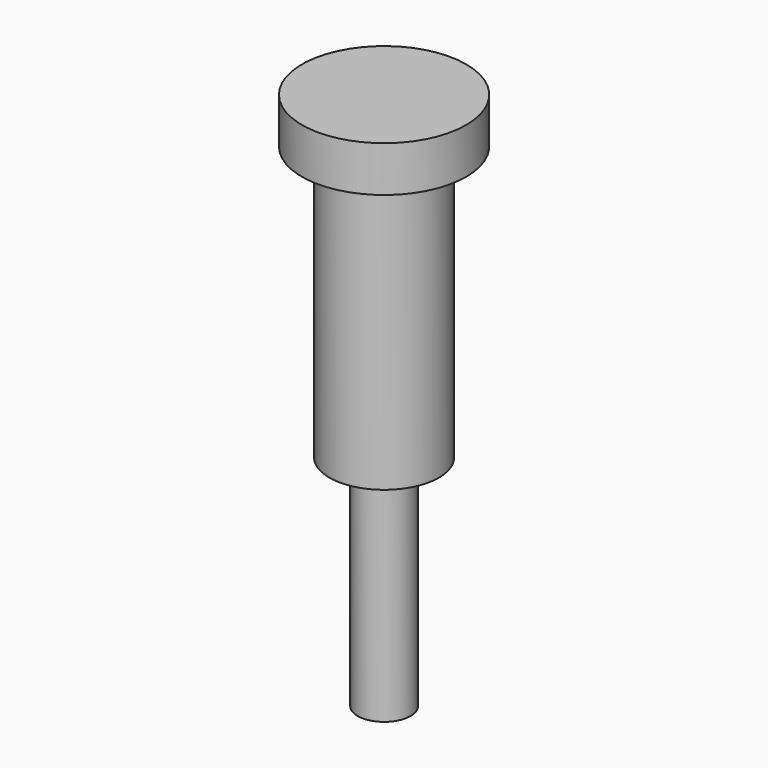
from build123d import *

# Parameters (mm, degrees)
F0_R     = 1.45
F1_DEPTH = 12
F2_R     = 3
F3_DEPTH = 15
F4_R     = 4.5
F5_DEPTH = 2.5
F6_R     = 0.475
F7_DEPTH = 22
F8_SIZE  = 0.4


with BuildPart() as f1:
    # F0 (on Top) → F1 (new body)
    with BuildSketch(Plane.XY):
        Circle(F0_R)
    extrude(amount=F1_DEPTH)

    # F2 (on face) → F3 (join)
    with BuildSketch(Plane.XY.offset(12)):
        Circle(F2_R)
    extrude(amount=F3_DEPTH)

    # F4 (on face) → F5 (join)
    with BuildSketch(Plane.XY.offset(27)):
        Circle(F4_R)
    extrude(amount=F5_DEPTH)


with BuildPart() as f7:
    # F6 (on Top) → F7 (new body)
    with BuildSketch(Plane.XY):
        Circle(F6_R)
    extrude(amount=F7_DEPTH)

    # F8
    f8_edges = [f7.edges().sort_by_distance(p)[0] for p in [
        (-0.475, 0, 22),
    ]]
    chamfer(f8_edges, length=F8_SIZE)


solid = Compound([f1.part, f7.part])
